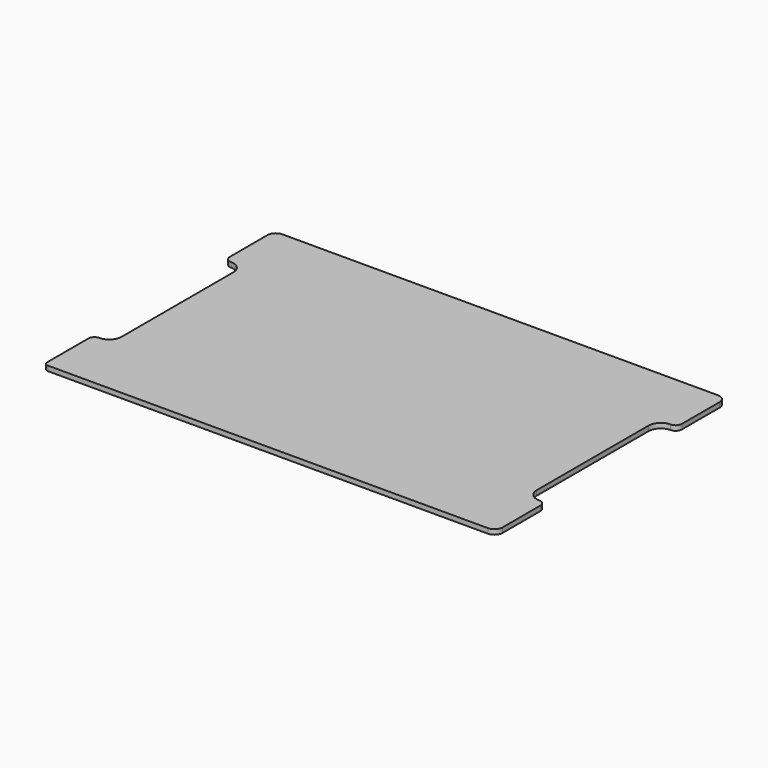
from build123d import *

# Parameters (mm, degrees)
F1_DEPTH = 6


with BuildPart() as f1:
    # F0 (on Top) → F1 (new body)
    with BuildSketch(Plane.XY):
        with BuildLine():
            ThreePointArc((275, 165), (272.071068, 172.071068), (265, 175))
            Line((265, 175), (-265, 175))
            ThreePointArc((-265, 175), (-272.071068, 172.071068), (-275, 165))
            Line((-275, 165), (-275, 107.5))
            ThreePointArc((-275, 107.5), (-272.803301, 102.196699), (-267.5, 100))
            ThreePointArc((-267.5, 100), (-256.893398, 95.606602), (-252.5, 85))
            Line((-252.5, 85), (-252.5, -85))
            ThreePointArc((-252.5, -85), (-256.893398, -95.606602), (-267.5, -100))
            ThreePointArc((-267.5, -100), (-272.803301, -102.196699), (-275, -107.5))
            Line((-275, -107.5), (-275, -170))
            ThreePointArc((-275, -170), (-273.535534, -173.535534), (-270, -175))
            Line((-270, -175), (265, -175))
            ThreePointArc((265, -175), (272.071068, -172.071068), (275, -165))
            Line((275, -165), (275, -107.5))
            ThreePointArc((275, -107.5), (272.803301, -102.196699), (267.5, -100))
            ThreePointArc((267.5, -100), (256.893398, -95.606602), (252.5, -85))
            Line((252.5, -85), (252.5, 85))
            ThreePointArc((252.5, 85), (256.893398, 95.606602), (267.5, 100))
            ThreePointArc((267.5, 100), (272.803301, 102.196699), (275, 107.5))
            Line((275, 107.5), (275, 165))
        make_face()
    extrude(amount=F1_DEPTH)


solid = f1.part
